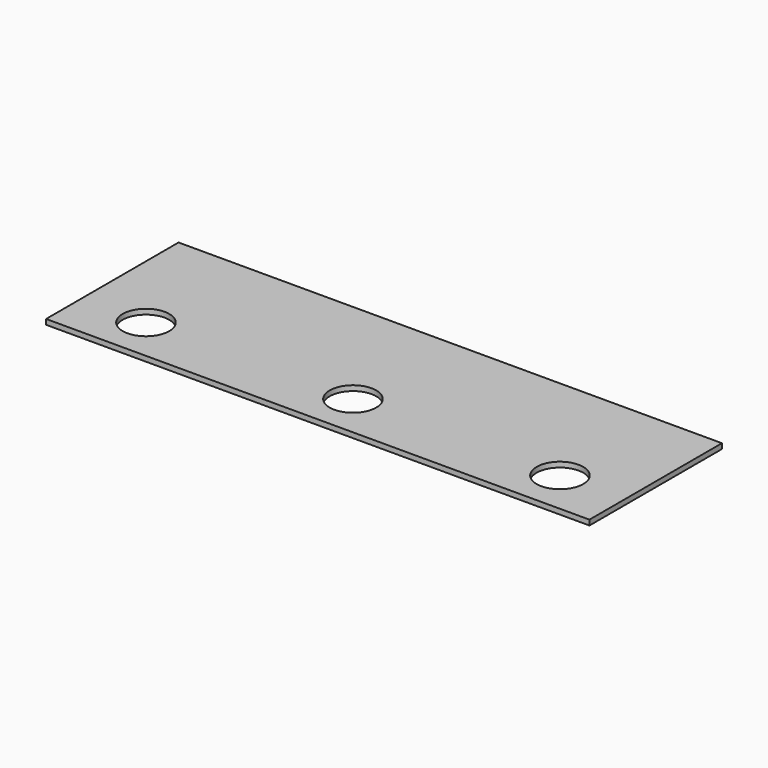
from build123d import *

# Parameters (mm, degrees)
F0_W     = 333.375
F0_H     = 101.6
F1_DEPTH = 3.175
F2_R     = 14.2875
F3_DEPTH = 25.4


with BuildPart() as f1:
    # F0 (on Top) → F1 (new body)
    with BuildSketch(Plane.XY):
        with Locations((166.6875, -50.8)):
            Rectangle(F0_W, F0_H)
    extrude(amount=F1_DEPTH)

    # F2 (on face) → F3 (cut)
    with BuildSketch(Plane.XY.offset(3.175)):
        with Locations((39.6875, -74.6125)):
            Circle(F2_R)
        with Locations((166.6875, -74.6125)):
            Circle(F2_R)
        with Locations((293.6875, -74.6125)):
            Circle(F2_R)
    extrude(amount=-F3_DEPTH, mode=Mode.SUBTRACT)


solid = f1.part
